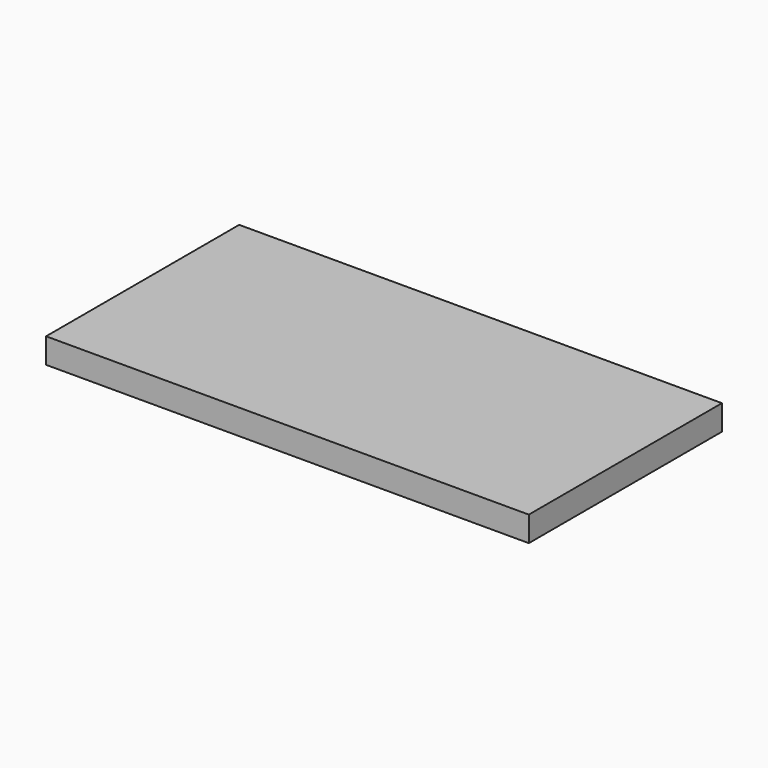
from build123d import *

# Parameters (mm, degrees)
F0_W     = 152.4
F0_H     = 152.4
F0_W_2   = 101.6
F0_H_2   = 101.6
F1_DEPTH = 63.5


with BuildPart() as f1:
    # F0 (on Top) → F1 (new body)
    with BuildSketch(Plane.XY):
        with Locations((533.4, 228.6)):
            Rectangle(F0_W, F0_H)
        with Locations((533.4, 228.6)):
            Rectangle(F0_W_2, F0_H_2, mode=Mode.SUBTRACT)
        Polygon((457.2, 152.4), (457.2, 304.8), (-457.2, 304.8), (-457.2, 152.4), (-609.6, 152.4), (-609.6, -152.4), (-457.2, -152.4), (-457.2, -304.8), (457.2, -304.8), (457.2, -152.4), (609.6, -152.4), (609.6, 152.4), align=None)
        with Locations((-533.4, 228.6)):
            Rectangle(F0_W, F0_H)
        with Locations((-533.4, 228.6)):
            Rectangle(F0_W_2, F0_H_2, mode=Mode.SUBTRACT)
        with Locations((533.4, -228.6)):
            Rectangle(F0_W, F0_H)
        with Locations((533.4, -228.6)):
            Rectangle(F0_W_2, F0_H_2, mode=Mode.SUBTRACT)
        with Locations((-533.4, -228.6)):
            Rectangle(F0_W, F0_H)
        with Locations((-533.4, -228.6)):
            Rectangle(F0_W_2, F0_H_2, mode=Mode.SUBTRACT)
        with Locations((-533.4, -228.6)):
            Rectangle(F0_W_2, F0_H_2)
        with Locations((-533.4, 228.6)):
            Rectangle(F0_W_2, F0_H_2)
        with Locations((533.4, 228.6)):
            Rectangle(F0_W_2, F0_H_2)
        with Locations((533.4, -228.6)):
            Rectangle(F0_W_2, F0_H_2)
    extrude(amount=F1_DEPTH)


solid = f1.part
